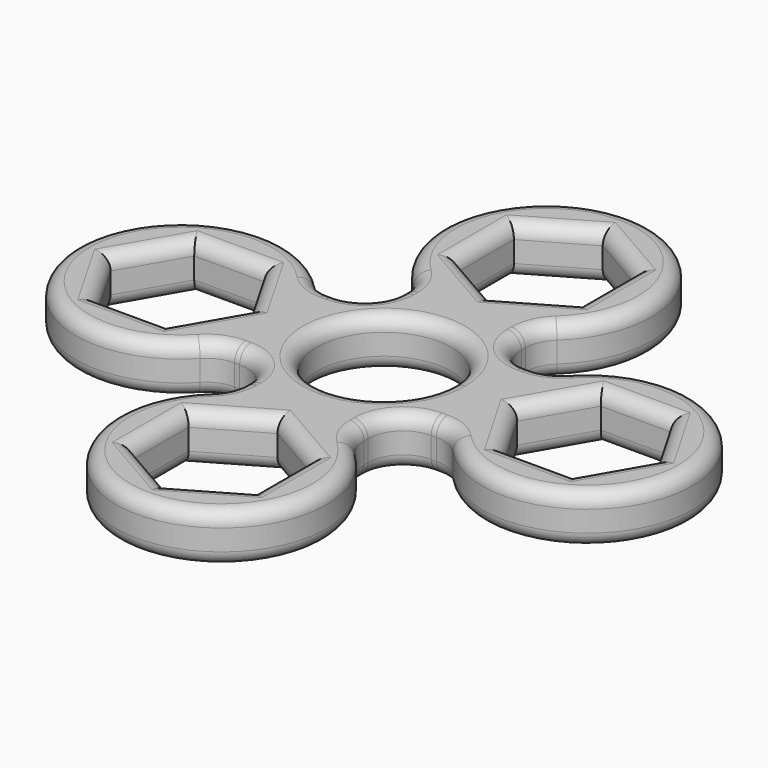
from build123d import *

# Parameters (mm, degrees)
F1_DEPTH = 7
F2_R     = 2
F3_R     = 2


with BuildPart() as f1:
    # F0 (on Top) → F1 (new body)
    with BuildSketch(Plane.XY):
        with BuildLine():
            ThreePointArc((8.6602540378, 14.3918700847), (9.0735712743, 16.3824331273), (10.2451905284, 18.0439025635))
            ThreePointArc((10.2451905284, 18.0439025635), (0, 44), (-10.2451905284, 18.0439025635))
            ThreePointArc((-10.2451905284, 18.0439025635), (-9.0735712743, 16.3824331273), (-8.6602540378, 14.3918700847))
            Line((-8.6602540378, 14.3918700847), (-8.6602540378, 13.6602540378))
            ThreePointArc((-8.6602540378, 13.6602540378), (-10.1247201319, 10.1247201319), (-13.6602540378, 8.6602540378))
            Line((-13.6602540378, 8.6602540378), (-14.3918700847, 8.6602540378))
            ThreePointArc((-14.3918700847, 8.6602540378), (-16.3824331273, 9.0735712743), (-18.0439025635, 10.2451905284))
            ThreePointArc((-18.0439025635, 10.2451905284), (-44, 0), (-18.0439025635, -10.2451905284))
            ThreePointArc((-18.0439025635, -10.2451905284), (-16.3824331273, -9.0735712743), (-14.3918700847, -8.6602540378))
            Line((-14.3918700847, -8.6602540378), (-13.6602540378, -8.6602540378))
            ThreePointArc((-13.6602540378, -8.6602540378), (-10.1247201319, -10.1247201319), (-8.6602540378, -13.6602540378))
            Line((-8.6602540378, -13.6602540378), (-8.6602540378, -14.3918700847))
            ThreePointArc((-8.6602540378, -14.3918700847), (-9.0735712743, -16.3824331273), (-10.2451905284, -18.0439025635))
            ThreePointArc((-10.2451905284, -18.0439025635), (0, -44), (10.2451905284, -18.0439025635))
            ThreePointArc((10.2451905284, -18.0439025635), (9.0735712743, -16.3824331273), (8.6602540378, -14.3918700847))
            Line((8.6602540378, -14.3918700847), (8.6602540378, -13.6602540378))
            ThreePointArc((8.6602540378, -13.6602540378), (10.1247201319, -10.1247201319), (13.6602540378, -8.6602540378))
            Line((13.6602540378, -8.6602540378), (14.3918700847, -8.6602540378))
            ThreePointArc((14.3918700847, -8.6602540378), (16.3824331273, -9.0735712743), (18.0439025635, -10.2451905284))
            ThreePointArc((18.0439025635, -10.2451905284), (44, 0), (18.0439025635, 10.2451905284))
            ThreePointArc((18.0439025635, 10.2451905284), (16.3824331273, 9.0735712743), (14.3918700847, 8.6602540378))
            Line((14.3918700847, 8.6602540378), (13.6602540378, 8.6602540378))
            ThreePointArc((13.6602540378, 8.6602540378), (10.1247201319, 10.1247201319), (8.6602540378, 13.6602540378))
            Line((8.6602540378, 13.6602540378), (8.6602540378, 14.3918700847))
        make_face()
        Polygon((-24, -8.6602540378), (-34, -8.6602540378), (-39, 0), (-34, 8.6602540378), (-24, 8.6602540378), (-19, 0), align=None, mode=Mode.SUBTRACT)
        Polygon((8.6602540378, -24), (8.6602540378, -34), (0, -39), (-8.6602540378, -34), (-8.6602540378, -24), (0, -19), align=None, mode=Mode.SUBTRACT)
        with BuildLine():
            ThreePointArc((0, -9.6), (-6.7882250994, 6.7882250994), (9.6, 0))
            ThreePointArc((9.6, 0), (6.7882250994, -6.7882250994), (0, -9.6))
        make_face(mode=Mode.SUBTRACT)
        Polygon((24, 8.6602540378), (34, 8.6602540378), (39, 0), (34, -8.6602540378), (24, -8.6602540378), (19, 0), align=None, mode=Mode.SUBTRACT)
        Polygon((0, 39), (8.6602540378, 34), (8.6602540378, 24), (0, 19), (-8.6602540378, 24), (-8.6602540378, 34), align=None, mode=Mode.SUBTRACT)
    extrude(amount=F1_DEPTH)

    # F2
    f2_edges = [f1.edges().sort_by_distance(p)[0] for p in [
        (10.12472, 10.12472, 7),
        (8.660254, 14.026062, 7),
        (9.073571, 16.382433, 7),
        (0, 44, 7),
        (-9.073571, 16.382433, 7),
        (-8.660254, 14.026062, 7),
        (-10.12472, 10.12472, 7),
        (-14.026062, 8.660254, 7),
        (-16.382433, 9.073571, 7),
        (-44, 0, 7),
        (-16.382433, -9.073571, 7),
        (-14.026062, -8.660254, 7),
        (-10.12472, -10.12472, 7),
        (-8.660254, -14.026062, 7),
        (-9.073571, -16.382433, 7),
        (0, -44, 7),
        (9.073571, -16.382433, 7),
        (8.660254, -14.026062, 7),
        (10.12472, -10.12472, 7),
        (14.026062, -8.660254, 7),
        (16.382433, -9.073571, 7),
        (44, 0, 7),
        (16.382433, 9.073571, 7),
        (14.026062, 8.660254, 7),
        (-29, -8.660254, 7),
        (-36.5, -4.330127, 7),
        (-36.5, 4.330127, 7),
        (-29, 8.660254, 7),
        (-21.5, 4.330127, 7),
        (-21.5, -4.330127, 7),
        (8.660254, -29, 7),
        (4.330127, -36.5, 7),
        (-4.330127, -36.5, 7),
        (-8.660254, -29, 7),
        (-4.330127, -21.5, 7),
        (4.330127, -21.5, 7),
        (-9.6, 0, 7),
        (29, 8.660254, 7),
        (36.5, 4.330127, 7),
        (36.5, -4.330127, 7),
        (29, -8.660254, 7),
        (21.5, -4.330127, 7),
        (21.5, 4.330127, 7),
        (-4.330127, 36.5, 7),
        (4.330127, 36.5, 7),
        (8.660254, 29, 7),
        (4.330127, 21.5, 7),
        (-4.330127, 21.5, 7),
        (-8.660254, 29, 7),
    ]]
    fillet(f2_edges, radius=F2_R)

    # F3
    f3_edges = [f1.edges().sort_by_distance(p)[0] for p in [
        (10.12472, 10.12472, 0),
        (8.660254, 14.026062, 0),
        (9.073571, 16.382433, 0),
        (0, 44, 0),
        (-9.073571, 16.382433, 0),
        (-8.660254, 14.026062, 0),
        (-10.12472, 10.12472, 0),
        (-14.026062, 8.660254, 0),
        (-16.382433, 9.073571, 0),
        (-44, 0, 0),
        (-16.382433, -9.073571, 0),
        (-14.026062, -8.660254, 0),
        (-10.12472, -10.12472, 0),
        (-8.660254, -14.026062, 0),
        (-9.073571, -16.382433, 0),
        (0, -44, 0),
        (9.073571, -16.382433, 0),
        (8.660254, -14.026062, 0),
        (10.12472, -10.12472, 0),
        (14.026062, -8.660254, 0),
        (16.382433, -9.073571, 0),
        (44, 0, 0),
        (16.382433, 9.073571, 0),
        (14.026062, 8.660254, 0),
        (-29, -8.660254, 0),
        (-36.5, -4.330127, 0),
        (-36.5, 4.330127, 0),
        (-29, 8.660254, 0),
        (-21.5, 4.330127, 0),
        (-21.5, -4.330127, 0),
        (8.660254, -29, 0),
        (4.330127, -36.5, 0),
        (-4.330127, -36.5, 0),
        (-8.660254, -29, 0),
        (-4.330127, -21.5, 0),
        (4.330127, -21.5, 0),
        (-9.6, 0, 0),
        (29, 8.660254, 0),
        (36.5, 4.330127, 0),
        (36.5, -4.330127, 0),
        (29, -8.660254, 0),
        (21.5, -4.330127, 0),
        (21.5, 4.330127, 0),
        (-4.330127, 36.5, 0),
        (4.330127, 36.5, 0),
        (8.660254, 29, 0),
        (4.330127, 21.5, 0),
        (-4.330127, 21.5, 0),
        (-8.660254, 29, 0),
    ]]
    fillet(f3_edges, radius=F3_R)


solid = f1.part
